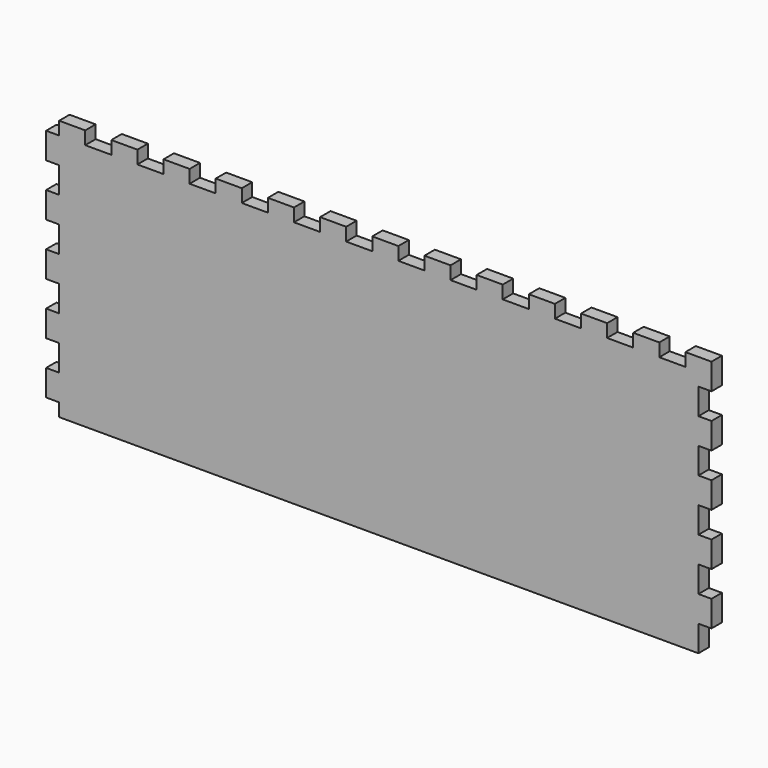
from build123d import *

# Parameters (mm, degrees)
SKETCH011_W             = 95
SKETCH011_H             = 250
PAD009_DEPTH            = 5
SKETCH035_W             = 10
SKETCH035_H             = 5
PAD027_DEPTH            = 5
LINEARPATTERN015_COUNT  = 5
LINEARPATTERN015_PITCH  = 20
SKETCH041_W             = 10
SKETCH041_H             = 5
PAD030_DEPTH            = 5
LINEARPATTERN021_COUNT  = 13
LINEARPATTERN021_PITCH  = 20
SKETCH048_W             = 10
SKETCH048_H             = 5
POCKET014_DEPTH         = 5
LINEARPATTERN028_COUNT  = 5
LINEARPATTERN028_PITCH  = 20
BODY009_PITCH_ANGLE     = -90
BODY009_PLACEMENT_ANGLE = -90


with BuildPart() as part:
    # Sketch011 → Pad009 (new body)
    with BuildSketch(Plane.XY):
        Rectangle(SKETCH011_W, SKETCH011_H)
    extrude(amount=PAD009_DEPTH)

    # Sketch035 (on DatumPlane) → Pad027 (join)
    with BuildSketch(Plane.XZ.offset(125)):
        with Locations((-37.5, 2.5)):
            Rectangle(SKETCH035_W, SKETCH035_H)
    pad027 = extrude(amount=PAD027_DEPTH)

    # LinearPattern015: Pad027 ×5
    with Locations(*[(i * LINEARPATTERN015_PITCH, 0, 0) for i in range(1, LINEARPATTERN015_COUNT)]):
        add(pad027)

    # Sketch041 (on DatumPlane) → Pad030 (join)
    with BuildSketch(Plane.YZ.offset(47.5)):
        with Locations((-120, 2.5)):
            Rectangle(SKETCH041_W, SKETCH041_H)
    pad030 = extrude(amount=PAD030_DEPTH)

    # LinearPattern021: Pad030 ×13
    with Locations(*[(0, i * LINEARPATTERN021_PITCH, 0) for i in range(1, LINEARPATTERN021_COUNT)]):
        add(pad030)

    # Sketch048 (on DatumPlane) → Pocket014 (cut)
    with BuildSketch(Plane(origin=(0, 125, 0), x_dir=(-1, 0, 0), z_dir=(0, 1, 0))):
        with Locations((-37.5, 2.5)):
            Rectangle(SKETCH048_W, SKETCH048_H)
    pocket014 = extrude(amount=-POCKET014_DEPTH, mode=Mode.SUBTRACT)

    # LinearPattern028: Pocket014 ×5
    with Locations(*[(-i * LINEARPATTERN028_PITCH, 0, 0) for i in range(1, LINEARPATTERN028_COUNT)]):
        add(pocket014, mode=Mode.SUBTRACT)


with BuildPart() as part_1:
    # Body009 pitch: moved
    add(part.part.rotate(Axis((0, 0, 0), (0, 1, 0)), BODY009_PITCH_ANGLE))


with BuildPart() as part_2:
    # Body009 placement: moved
    add(part_1.part.moved(Location((-125, 145, 152.5))).rotate(Axis((-125, 145, 152.5), (0, 0, 1)), BODY009_PLACEMENT_ANGLE))


solid = part_2.part
